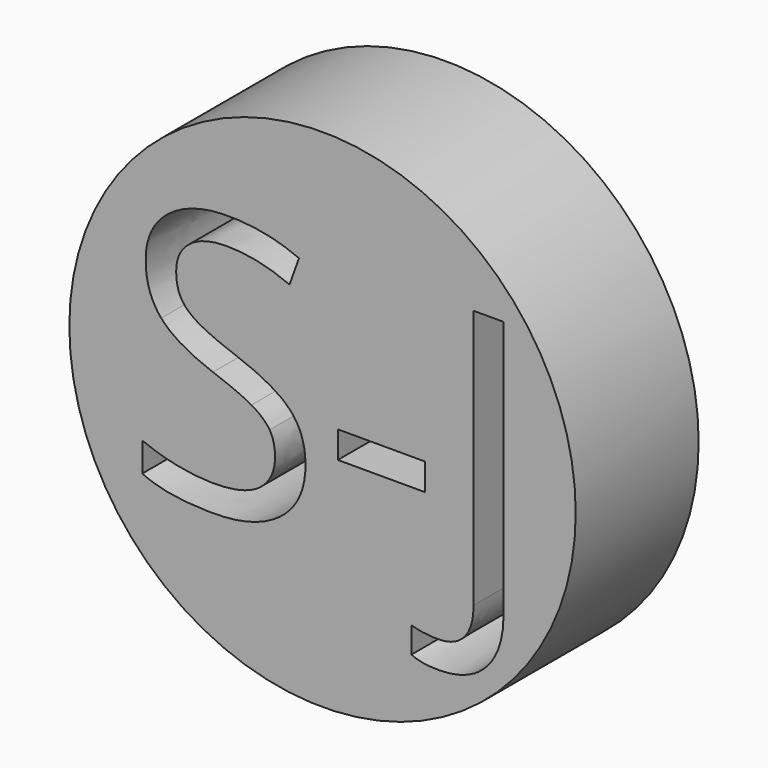
from build123d import *

# Parameters (mm, degrees)
F0_R     = 41.8452571416
F0_W     = 14.3901980304
F0_H     = 4.4558957395
F1_DEPTH = 25.4


with BuildPart() as f1:
    # F0 (on Front) → F1 (new body)
    with BuildSketch(Plane.XZ):
        Circle(F0_R)
        with Locations((9.7271105858, -2.8357197633)):
            Rectangle(F0_W, F0_H, mode=Mode.SUBTRACT)
        with BuildLine():
            add(Edge.make_bspline(
                [(27.1191752197, -27.1508392515), (24.304925279, -30.2136812703), (19.0235162235, -30.2136812703)],
                knots=[0, 0, 0, 1, 1, 1], degree=2))
            add(Edge.make_bspline(
                [(19.0235162235, -30.2136812703), (16.2749321147, -30.2136812703), (14.6895713147, -29.4256912869)],
                knots=[0, 0, 0, 1, 1, 1], degree=2))
            Line((14.6895713147, -29.4256912869), (14.6895713147, -25.1761738764))
            add(Edge.make_bspline(
                [(14.6895713147, -25.1761738764), (16.7721162709, -25.7577855308), (19.0235162235, -25.7577855308)],
                knots=[0, 0, 0, 1, 1, 1], degree=2))
            add(Edge.make_bspline(
                [(19.0235162235, -25.7577855308), (21.9315744956, -25.7577855308), (23.4418886305, -23.9988793178)],
                knots=[0, 0, 0, 1, 1, 1], degree=2))
            add(Edge.make_bspline(
                [(23.4418886305, -23.9988793178), (24.9522027653, -22.2399731049), (24.9522027653, -18.9285390079)],
                knots=[0, 0, 0, 1, 1, 1], degree=2))
            Line((24.9522027653, -18.9285390079), (24.9522027653, 23.9324875899))
            Line((24.9522027653, 23.9324875899), (29.9334251605, 23.9324875899))
            Line((29.9334251605, 23.9324875899), (29.9334251605, -18.5157823499))
            add(Edge.make_bspline(
                [(29.9334251605, -18.5157823499), (29.9334251605, -24.0879972326), (27.1191752197, -27.1508392515)],
                knots=[0, 0, 0, 1, 1, 1], degree=2))
        make_face(mode=Mode.SUBTRACT)
        with BuildLine():
            add(Edge.make_bspline(
                [(-5.3478882635, -0.3732510652), (-2.8150633168, -3.1312160071), (-2.8150633168, -7.5214459147)],
                knots=[0, 0, 0, 1, 1, 1], degree=2))
            add(Edge.make_bspline(
                [(-2.8150633168, -7.5214459147), (-2.8150633168, -13.1780882956), (-6.9191778138, -16.3488098955)],
                knots=[0, 0, 0, 1, 1, 1], degree=2))
            add(Edge.make_bspline(
                [(-6.9191778138, -16.3488098955), (-11.0232923107, -19.5195314955), (-18.0589171626, -19.5195314955)],
                knots=[0, 0, 0, 1, 1, 1], degree=2))
            add(Edge.make_bspline(
                [(-18.0589171626, -19.5195314955), (-25.6761536689, -19.5195314955), (-29.7849585824, -17.5495565369)],
                knots=[0, 0, 0, 1, 1, 1], degree=2))
            Line((-29.7849585824, -17.5495565369), (-29.7849585824, -12.7465699714))
            add(Edge.make_bspline(
                [(-29.7849585824, -12.7465699714), (-27.1395636381, -13.8535082814), (-24.0345078702, -14.5007857678)],
                knots=[0, 0, 0, 1, 1, 1], degree=2))
            add(Edge.make_bspline(
                [(-24.0345078702, -14.5007857678), (-20.9294521022, -15.1480632541), (-17.880681333, -15.1480632541)],
                knots=[0, 0, 0, 1, 1, 1], degree=2))
            add(Edge.make_bspline(
                [(-17.880681333, -15.1480632541), (-12.8994589379, -15.1480632541), (-10.3760148243, -13.2578253773)],
                knots=[0, 0, 0, 1, 1, 1], degree=2))
            add(Edge.make_bspline(
                [(-10.3760148243, -13.2578253773), (-7.8525707108, -11.3675875004), (-7.8525707108, -7.9904875715)],
                knots=[0, 0, 0, 1, 1, 1], degree=2))
            add(Edge.make_bspline(
                [(-7.8525707108, -7.9904875715), (-7.8525707108, -5.7672301183), (-8.7484402753, -4.3460338982)],
                knots=[0, 0, 0, 1, 1, 1], degree=2))
            add(Edge.make_bspline(
                [(-8.7484402753, -4.3460338982), (-9.6443098397, -2.9248376781), (-11.7409260456, -1.7194006202)],
                knots=[0, 0, 0, 1, 1, 1], degree=2))
            add(Edge.make_bspline(
                [(-11.7409260456, -1.7194006202), (-13.8375422515, -0.5139635622), (-18.1152021614, 1.0057314058)],
                knots=[0, 0, 0, 1, 1, 1], degree=2))
            add(Edge.make_bspline(
                [(-18.1152021614, 1.0057314058), (-24.090792869, 3.1445613608), (-26.6564507316, 6.0760717157)],
                knots=[0, 0, 0, 1, 1, 1], degree=2))
            add(Edge.make_bspline(
                [(-26.6564507316, 6.0760717157), (-29.2221085943, 9.0075820707), (-29.2221085943, 13.726141138)],
                knots=[0, 0, 0, 1, 1, 1], degree=2))
            add(Edge.make_bspline(
                [(-29.2221085943, 13.726141138), (-29.2221085943, 18.6792210338), (-25.5026082559, 21.6107313887)],
                knots=[0, 0, 0, 1, 1, 1], degree=2))
            add(Edge.make_bspline(
                [(-25.5026082559, 21.6107313887), (-21.7831079175, 24.5422417437), (-15.6480430467, 24.5422417437)],
                knots=[0, 0, 0, 1, 1, 1], degree=2))
            add(Edge.make_bspline(
                [(-15.6480430467, 24.5422417437), (-9.2596956812, 24.5422417437), (-3.8938591275, 22.1970334597)],
                knots=[0, 0, 0, 1, 1, 1], degree=2))
            Line((-3.8938591275, 22.1970334597), (-5.451077428, 17.863088551))
            add(Edge.make_bspline(
                [(-5.451077428, 17.863088551), (-10.7606289829, 20.0863460042), (-15.7699938775, 20.0863460042)],
                knots=[0, 0, 0, 1, 1, 1], degree=2))
            add(Edge.make_bspline(
                [(-15.7699938775, 20.0863460042), (-19.7287054608, 20.0863460042), (-21.9566533306, 18.3884152066)],
                knots=[0, 0, 0, 1, 1, 1], degree=2))
            add(Edge.make_bspline(
                [(-21.9566533306, 18.3884152066), (-24.1846012003, 16.690484409), (-24.1846012003, 13.6698561392)],
                knots=[0, 0, 0, 1, 1, 1], degree=2))
            add(Edge.make_bspline(
                [(-24.1846012003, 13.6698561392), (-24.1846012003, 11.446598686), (-23.3637783009, 10.0207120494)],
                knots=[0, 0, 0, 1, 1, 1], degree=2))
            add(Edge.make_bspline(
                [(-23.3637783009, 10.0207120494), (-22.5429554016, 8.5948254127), (-20.5917421093, 7.408150021)],
                knots=[0, 0, 0, 1, 1, 1], degree=2))
            add(Edge.make_bspline(
                [(-20.5917421093, 7.408150021), (-18.640528817, 6.2214746294), (-14.6255322349, 4.7862071596)],
                knots=[0, 0, 0, 1, 1, 1], degree=2))
            add(Edge.make_bspline(
                [(-14.6255322349, 4.7862071596), (-7.8807132102, 2.3847138768), (-5.3478882635, -0.3732510652)],
                knots=[0, 0, 0, 1, 1, 1], degree=2))
        make_face(mode=Mode.SUBTRACT)
    extrude(amount=F1_DEPTH)


solid = f1.part
